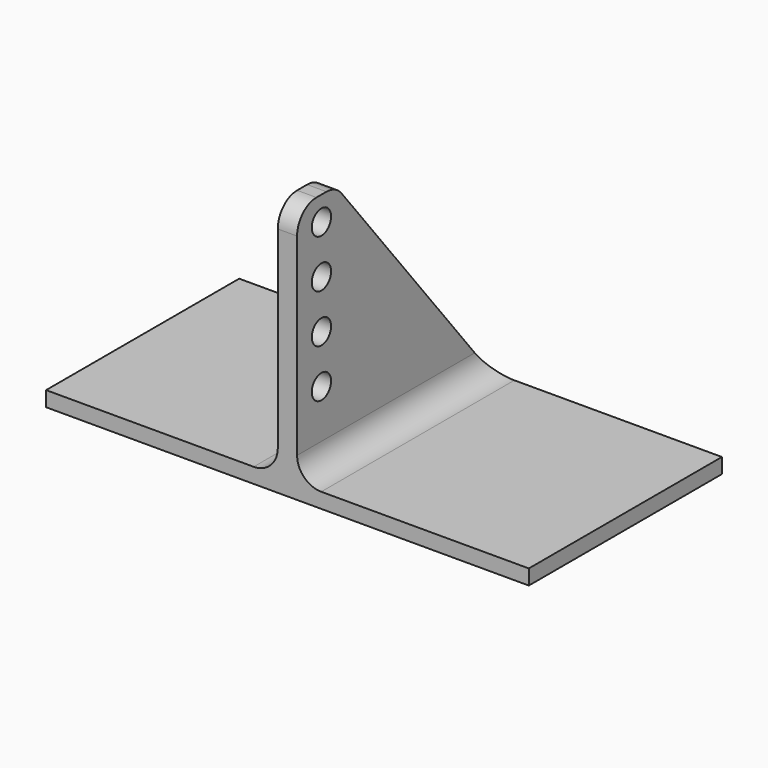
from build123d import *

# Parameters (mm, degrees)
F0_W     = 50.8
F0_H     = 25.4
F1_DEPTH = 1.5875
F2_W     = 2.032
F2_H     = 25.4
F3_DEPTH = 25.4
F5_DEPTH = 25.4
F6_R     = 2.54
F7_R     = 2.54
F8_R     = 1.27
F9_DEPTH = 25.4


with BuildPart() as f1:
    # F0 (on Top) → F1 (new body)
    with BuildSketch(Plane.XY):
        Rectangle(F0_W, F0_H)
    extrude(amount=F1_DEPTH)

    # F2 (on face) → F3 (join)
    with BuildSketch(Plane.XY.offset(1.5875)):
        Rectangle(F2_W, F2_H)
    extrude(amount=F3_DEPTH)

    # F4 (on face) → F5 (cut)
    with BuildSketch(Plane(origin=(-1.016, 0, 0), x_dir=(0, -1, 0), z_dir=(-1, 0, 0))):
        Polygon((-12.7, 26.9875), (-12.7, 1.5875), (7.62, 26.9875), align=None)
    extrude(amount=-F5_DEPTH, mode=Mode.SUBTRACT)

    # F6
    f6_edges = [f1.edges().sort_by_distance(p)[0] for p in [
        (-1.016, 0, 1.5875),
        (1.016, 0, 1.5875),
    ]]
    fillet(f6_edges, radius=F6_R)

    # F7
    f7_edges = [f1.edges().sort_by_distance(p)[0] for p in [
        (0, -7.62, 26.9875),
        (0, -12.7, 26.9875),
    ]]
    fillet(f7_edges, radius=F7_R)

    # F8 (on face) → F9 (cut)
    with BuildSketch(Plane(origin=(-1.016, 0, 0), x_dir=(0, -1, 0), z_dir=(-1, 0, 0))):
        with Locations((9.5003935563, 24.4475)):
            Circle(F8_R)
        with Locations((9.5003935563, 19.3675)):
            Circle(F8_R)
        with Locations((9.5003935563, 14.2875)):
            Circle(F8_R)
        with Locations((9.5003935563, 9.2075)):
            Circle(F8_R)
    extrude(amount=-F9_DEPTH, mode=Mode.SUBTRACT)


solid = f1.part
